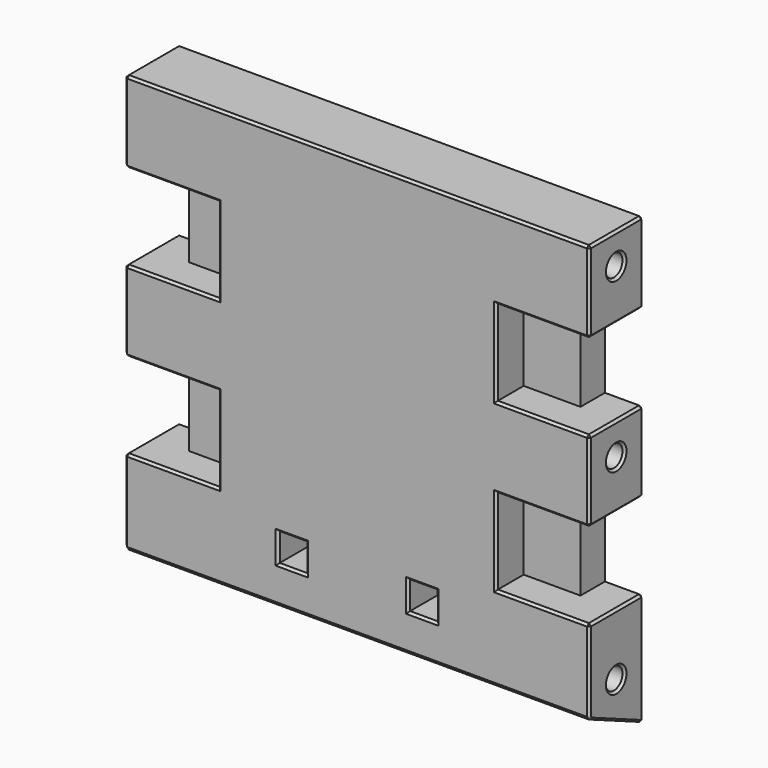
from build123d import *

# Parameters (mm, degrees)
SKETCH005_W     = 83
SKETCH005_H     = 96
PAD003_DEPTH    = 12
SKETCH006_R     = 1.9
POCKET002_DEPTH = 83.001
SKETCH007_W     = 30
SKETCH007_H     = 5
POCKET003_DEPTH = 12.001
SKETCH009_W     = 6.5
SKETCH009_H     = 15.3
POCKET005_DEPTH = 12.001
SKETCH010_W     = 10.15
SKETCH010_H     = 15.3
POCKET006_DEPTH = 6.15
SKETCH025_W     = 43
SKETCH025_H     = 80
PAD008_DEPTH    = 12
SKETCH026_W     = 5
SKETCH026_H     = 5
POCKET017_DEPTH = 12.001
SKETCH027_W     = 18.3
SKETCH027_H     = 5
POCKET018_DEPTH = 5.5
POCKET019_DEPTH = 83.001
SKETCH041_W     = 83
SKETCH041_H     = 7.5
POCKET030_DEPTH = 12.001
CHAMFER_SIZE    = 0.4


with BuildPart() as part:
    # Sketch005 → Pad003 (new body)
    with BuildSketch(Plane.XZ):
        with Locations((-41.5, 48)):
            Rectangle(SKETCH005_W, SKETCH005_H)
    extrude(amount=-PAD003_DEPTH)

    # Sketch006 (on Face4 of Pad003) → Pocket002 (cut, through all)
    with BuildSketch(Plane(origin=(0, 0, 0), x_dir=(0, 0, 1), z_dir=(1, 0, 0))):
        with Locations((18, -6)):
            Circle(SKETCH006_R)
        with Locations((53, -6)):
            Circle(SKETCH006_R)
        with Locations((83, -6)):
            Circle(SKETCH006_R)
    extrude(amount=-POCKET002_DEPTH, mode=Mode.SUBTRACT)

    # Sketch007 (on Face5 of Pocket002) → Pocket003 (cut, through all)
    with BuildSketch(Plane(origin=(0, 12, 0), x_dir=(1, 0, 0), z_dir=(0, 1, 0))):
        with Locations((-68, -93.5)):
            Rectangle(SKETCH007_W, SKETCH007_H)
        with Locations((-15, -93.5)):
            Rectangle(SKETCH007_W, SKETCH007_H)
    extrude(amount=-POCKET003_DEPTH, mode=Mode.SUBTRACT)

    # Sketch009 (on Face5 of Pocket003) → Pocket005 (cut, through all)
    with BuildSketch(Plane(origin=(0, 12, 0), x_dir=(1, 0, 0), z_dir=(0, 1, 0))):
        with Locations((-79.75, -36.65)):
            Rectangle(SKETCH009_W, SKETCH009_H)
        with Locations((-79.75, -66.35)):
            Rectangle(SKETCH009_W, SKETCH009_H)
        with Locations((-3.25, -36.65)):
            Rectangle(SKETCH009_W, SKETCH009_H)
        with Locations((-3.25, -66.35)):
            Rectangle(SKETCH009_W, SKETCH009_H)
    extrude(amount=-POCKET005_DEPTH, mode=Mode.SUBTRACT)

    # Sketch010 (on Face4 of Pocket005) → Pocket006 (cut)
    with BuildSketch(Plane.XZ):
        with Locations((-71.425, 66.35)):
            Rectangle(SKETCH010_W, SKETCH010_H)
        with Locations((-71.425, 36.65)):
            Rectangle(SKETCH010_W, SKETCH010_H)
        with Locations((-11.575, 66.35)):
            Rectangle(SKETCH010_W, SKETCH010_H)
        with Locations((-11.575, 36.65)):
            Rectangle(SKETCH010_W, SKETCH010_H)
    extrude(amount=-POCKET006_DEPTH, mode=Mode.SUBTRACT)

    # Sketch025 (on Face5 of Pocket006) → Pad008 (join)
    with BuildSketch(Plane(origin=(0, 12, 0), x_dir=(1, 0, 0), z_dir=(0, 1, 0))):
        with Locations((-41.5, -50)):
            Rectangle(SKETCH025_W, SKETCH025_H)
    extrude(amount=-PAD008_DEPTH)

    # Sketch026 (on Face5 of Pad008) → Pocket017 (cut, through all)
    with BuildSketch(Plane(origin=(0, 12, 0), x_dir=(1, 0, 0), z_dir=(0, 1, 0))):
        with Locations((-53.15, -23)):
            Rectangle(SKETCH026_W, SKETCH026_H)
        with Locations((-29.85, -23)):
            Rectangle(SKETCH026_W, SKETCH026_H)
    extrude(amount=-POCKET017_DEPTH, mode=Mode.SUBTRACT)

    # Sketch027 (on Face5 of Pocket017) → Pocket018 (cut)
    with BuildSketch(Plane(origin=(0, 12, 0), x_dir=(1, 0, 0), z_dir=(0, 1, 0))):
        with Locations((-41.5, -23)):
            Rectangle(SKETCH027_W, SKETCH027_H)
    extrude(amount=-POCKET018_DEPTH, mode=Mode.SUBTRACT)

    # Sketch028 (on Face3 of Pocket018) → Pocket019 (cut, through all)
    with BuildSketch(Plane(origin=(-83, 0, 0), x_dir=(0, 0, -1), z_dir=(-1, 0, 0))):
        Polygon((0, 0), (-14, 0), (-3, -25), (0, -25), align=None)
    extrude(amount=-POCKET019_DEPTH, mode=Mode.SUBTRACT)

    # Sketch041 (on Face4 of Pocket019) → Pocket030 (cut, through all)
    with BuildSketch(Plane(origin=(0, 12, 0), x_dir=(1, 0, 0), z_dir=(0, 1, 0))):
        with Locations((-41.5, -92.25)):
            Rectangle(SKETCH041_W, SKETCH041_H)
    extrude(amount=-POCKET030_DEPTH, mode=Mode.SUBTRACT)

    # Chamfer
    chamfer_edges = [part.edges().sort_by_distance(p)[0] for p in [
        (-41.5, 12, 88.5),
        (-83, 12, 81.25),
        (-79.75, 12, 74),
        (-76.5, 12, 66.35),
        (-79.75, 12, 58.7),
        (-83, 12, 51.5),
        (-79.75, 12, 44.3),
        (-76.5, 12, 36.65),
        (-79.75, 12, 29),
        (-83, 12, 18.86),
        (-41.5, 12, 8.72),
        (0, 12, 18.86),
        (-3.25, 12, 29),
        (-6.5, 12, 36.65),
        (-3.25, 12, 44.3),
        (0, 12, 51.5),
        (-3.25, 12, 58.7),
        (-6.5, 12, 66.35),
        (-3.25, 12, 74),
        (0, 12, 81.25),
        (-55.65, 12, 23),
        (-41.5, 12, 25.5),
        (-41.5, 12, 20.5),
        (-27.35, 12, 23),
        (-83, 0, 21.5),
        (-83, 6, 29),
        (-83, 6, 11.36),
        (-83, 6, 16.1),
        (-83, 0, 51.5),
        (-83, 6, 58.7),
        (-83, 6, 44.3),
        (-83, 6, 51.1),
        (-83, 0, 81.25),
        (-83, 6, 88.5),
        (-83, 6, 74),
        (-83, 6, 81.1),
        (0, 0, 81.25),
        (0, 6, 74),
        (0, 6, 88.5),
        (0, 6, 81.1),
        (0, 0, 51.5),
        (0, 6, 44.3),
        (0, 6, 58.7),
        (0, 6, 51.1),
        (0, 0, 21.5),
        (0, 6, 11.36),
        (0, 6, 29),
        (0, 6, 16.1),
        (-74.675, 0, 74),
        (-66.35, 0, 66.35),
        (-74.675, 0, 58.7),
        (-74.675, 0, 44.3),
        (-66.35, 0, 36.65),
        (-74.675, 0, 29),
        (-41.5, 0, 14),
        (-8.325, 0, 29),
        (-16.65, 0, 36.65),
        (-8.325, 0, 44.3),
        (-8.325, 0, 58.7),
        (-16.65, 0, 66.35),
        (-8.325, 0, 74),
        (-41.5, 0, 88.5),
        (-55.65, 0, 23),
        (-53.15, 0, 25.5),
        (-53.15, 0, 20.5),
        (-50.65, 0, 23),
        (-32.35, 0, 23),
        (-29.85, 0, 25.5),
        (-29.85, 0, 20.5),
        (-27.35, 0, 23),
    ]]
    chamfer(chamfer_edges, length=CHAMFER_SIZE)


with BuildPart() as part_1:
    # Body001 placement: moved
    add(part.part.moved(Location((0, -31.5, 0))))


solid = part_1.part
